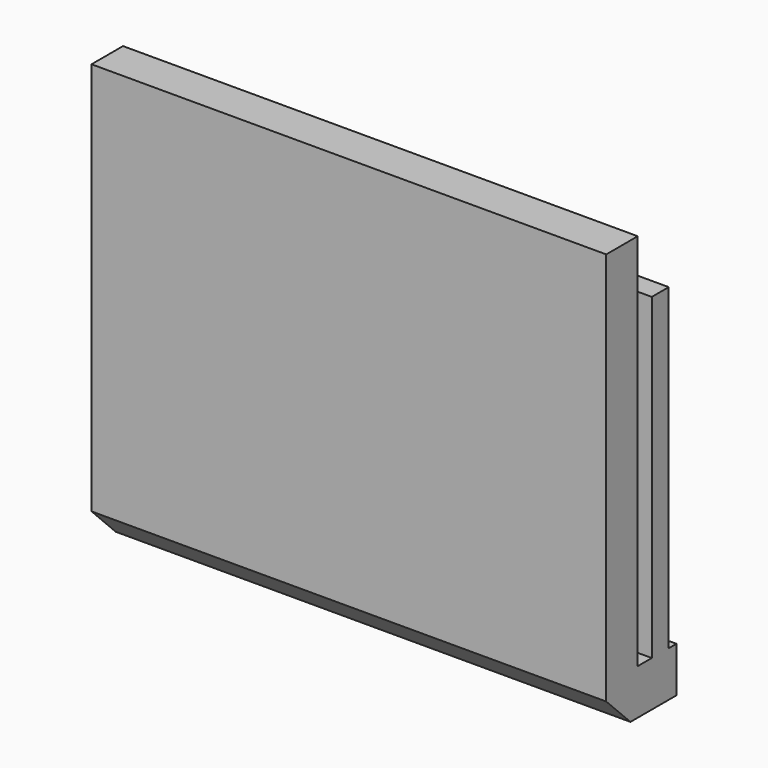
from build123d import *

# Parameters (mm, degrees)
F0_W     = 17
F0_H     = 2.9
F1_DEPTH = 14
F2_W     = 1.625
F2_H     = 0.32
F2_W_2   = 1
F2_H_2   = 0.58
F3_DEPTH = 12.5
F4_W     = 17
F4_H     = 1.6
F5_DEPTH = 2
F6_SIZE  = 1


with BuildPart() as f1:
    # F0 (on Top) → F1 (new body)
    with BuildSketch(Plane.XY):
        with Locations((8.5, 1.45)):
            Rectangle(F0_W, F0_H)
    extrude(amount=F1_DEPTH)

    # F2 (on face) → F3 (cut)
    with BuildSketch(Plane.XY.offset(14)):
        Polygon((15.375, 2.9), (8.5, 2.9), (1.625, 2.9), (1.625, 2.58), (1.625, 1.3), (15.375, 1.3), (15.375, 2.58), align=None)
        with Locations((16.1875, 2.74)):
            Rectangle(F2_W, F2_H)
        with Locations((0.8125, 2.74)):
            Rectangle(F2_W, F2_H)
        with Locations((16.5, 1.59)):
            Rectangle(F2_W_2, F2_H_2)
        with Locations((0.5, 1.59)):
            Rectangle(F2_W_2, F2_H_2)
    extrude(amount=-F3_DEPTH, mode=Mode.SUBTRACT)

    # F4 (on face) → F5 (cut)
    with BuildSketch(Plane.XY.offset(14)):
        with Locations((8.5, 2.1)):
            Rectangle(F4_W, F4_H)
    extrude(amount=-F5_DEPTH, mode=Mode.SUBTRACT)

    # F6
    f6_edges = [f1.edges().sort_by_distance(p)[0] for p in [
        (8.5, 0, 0),
    ]]
    chamfer(f6_edges, length=F6_SIZE)


solid = f1.part
